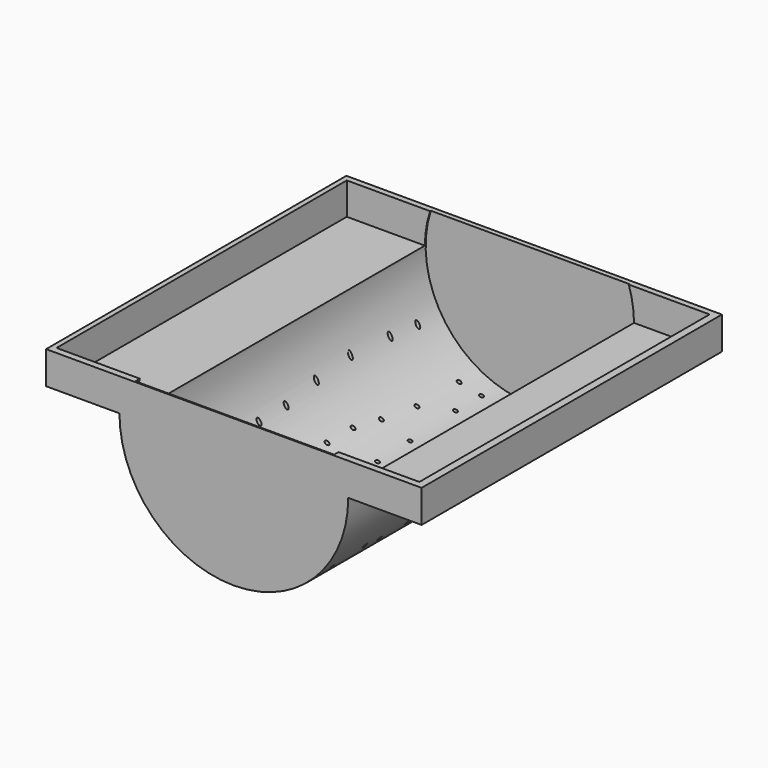
from build123d import *

# Parameters (mm, degrees)
PAD005_DEPTH    = 114.85
SKETCH017_R     = 0.6
HOLE_DEPTH      = 45.001
SKETCH018_W     = 111
SKETCH018_H     = 111
POCKET002_DEPTH = 9.8
CYLINDER_R      = 32
CYLINDER_DEPTH  = 113


with BuildPart() as part:
    # Sketch010 → Pad005 (new body)
    with BuildSketch(Plane.XZ):
        with BuildLine():
            ThreePointArc((-35, 0), (0, -35), (35, 0))
            Line((35, 0), (57.45, 0))
            Line((57.45, 10), (57.45, 0))
            Line((-57.45, 10), (57.45, 10))
            Line((-57.45, 10), (-57.45, 0))
            Line((-57.45, 0), (-35, 0))
        make_face()
    extrude(amount=PAD005_DEPTH)

    # Sketch017 (on Face4 of Pad005) → Hole (cut, through all)
    with BuildSketch(Plane(origin=(0, 0, 10), x_dir=(-1, 0, 0), z_dir=(0, 0, 1))):
        with Locations((27.538294, 10.093526)):
            Circle(SKETCH017_R)
        with Locations((27.983623, 20.085111)):
            Circle(SKETCH017_R)
        with Locations((28.405926, 34.81267)):
            Circle(SKETCH017_R)
        with Locations((27.845514, 48.500949)):
            Circle(SKETCH017_R)
        with Locations((27.011377, 61.071884)):
            Circle(SKETCH017_R)
        with Locations((26.938974, 71.550785)):
            Circle(SKETCH017_R)
        with Locations((25.643195, 86.324123)):
            Circle(SKETCH017_R)
        with Locations((25.026705, 98.297371)):
            Circle(SKETCH017_R)
        with Locations((25.524757, 106.274995)):
            Circle(SKETCH017_R)
        with Locations((-25.552702, 109.175189)):
            Circle(SKETCH017_R)
        with Locations((-26.022772, 5.653232)):
            Circle(SKETCH017_R)
        with Locations((-25.069057, 17.415684)):
            Circle(SKETCH017_R)
        with Locations((-25.704868, 27.270725)):
            Circle(SKETCH017_R)
        with Locations((-26.340673, 40.304844)):
            Circle(SKETCH017_R)
        with Locations((-26.022772, 51.11359)):
            Circle(SKETCH017_R)
        with Locations((-26.976484, 60.968632)):
            Circle(SKETCH017_R)
        with Locations((-26.658583, 72.731113)):
            Circle(SKETCH017_R)
        with Locations((-26.022772, 81.314518)):
            Circle(SKETCH017_R)
        with Locations((-26.332508, 92.06614)):
            Circle(SKETCH017_R)
        with Locations((-27.302553, 98.856444)):
            Circle(SKETCH017_R)
        with Locations((0, 31.028374)):
            Circle(SKETCH017_R)
        with Locations((8.31093, 49.524053)):
            Circle(SKETCH017_R)
        with Locations((0.99131, 23.83098)):
            Circle(SKETCH017_R)
        with Locations((13.61833, 70.332762)):
            Circle(SKETCH017_R)
        with Locations((3.245776, 64.67579)):
            Circle(SKETCH017_R)
        with Locations((7.480978, 98.578158)):
            Circle(SKETCH017_R)
        with Locations((-10.511312, 101.47834)):
            Circle(SKETCH017_R)
        with Locations((3.233674, 106.046148)):
            Circle(SKETCH017_R)
        with Locations((-13.266532, 107.980054)):
            Circle(SKETCH017_R)
        with Locations((-13.513352, 87.675385)):
            Circle(SKETCH017_R)
        with Locations((-4.976704, 87.201111)):
            Circle(SKETCH017_R)
        with Locations((9.725292, 87.675385)):
            Circle(SKETCH017_R)
        with Locations((-3.079681, 78.190186)):
            Circle(SKETCH017_R)
        with Locations((-14.461879, 75.344635)):
            Circle(SKETCH017_R)
        with Locations((-14.461879, 66.33374)):
            Circle(SKETCH017_R)
        with Locations((-15.884654, 54.951538)):
            Circle(SKETCH017_R)
        with Locations((-5.925231, 58.271362)):
            Circle(SKETCH017_R)
        with Locations((-5.450967, 47.363403)):
            Circle(SKETCH017_R)
        with Locations((-14.461879, 43.569336)):
            Circle(SKETCH017_R)
        with Locations((-15.410391, 25.547516)):
            Circle(SKETCH017_R)
        with Locations((-9.719292, 35.506958)):
            Circle(SKETCH017_R)
        with Locations((-9.719292, 21.279205)):
            Circle(SKETCH017_R)
        with Locations((-14.936127, 11.794037)):
            Circle(SKETCH017_R)
        with Locations((-8.77078, 9.897003)):
            Circle(SKETCH017_R)
        with Locations((1.188644, 9.422729)):
            Circle(SKETCH017_R)
        with Locations((9.725292, 7.999969)):
            Circle(SKETCH017_R)
        with Locations((15.416391, 9.422729)):
            Circle(SKETCH017_R)
        with Locations((9.725292, 17.959381)):
            Circle(SKETCH017_R)
        with Locations((15.416391, 25.547516)):
            Circle(SKETCH017_R)
        with Locations((8.776781, 36.455475)):
            Circle(SKETCH017_R)
        with Locations((16.839174, 37.403992)):
            Circle(SKETCH017_R)
        with Locations((18.26195, 46.414886)):
            Circle(SKETCH017_R)
        with Locations((18.26195, 56.374298)):
            Circle(SKETCH017_R)
        with Locations((5.931231, 77.715942)):
            Circle(SKETCH017_R)
        with Locations((-3.553929, 95.737762)):
            Circle(SKETCH017_R)
        with Locations((7.354006, 105.222916)):
            Circle(SKETCH017_R)
        with Locations((-3.079681, 107.119949)):
            Circle(SKETCH017_R)
        with Locations((-16.833166, 103.80014)):
            Circle(SKETCH017_R)
    extrude(amount=-HOLE_DEPTH, mode=Mode.SUBTRACT)

    # Sketch018 (on Face66 of Hole) → Pocket002 (cut)
    with BuildSketch(Plane(origin=(0, 0, 10), x_dir=(-1, 0, 0), z_dir=(0, 0, 1))):
        with Locations((0.385454, 57.301901)):
            Rectangle(SKETCH018_W, SKETCH018_H)
    extrude(amount=-POCKET002_DEPTH, mode=Mode.SUBTRACT)

    # Cylinder → Cylinder (cut)
    with BuildSketch(Plane.XZ.offset(1.5)):
        Circle(CYLINDER_R)
    extrude(amount=CYLINDER_DEPTH, mode=Mode.SUBTRACT)


with BuildPart() as part_1:
    # Body008 placement: moved
    add(part.part.moved(Location((0, 350, -350))))


solid = part_1.part
